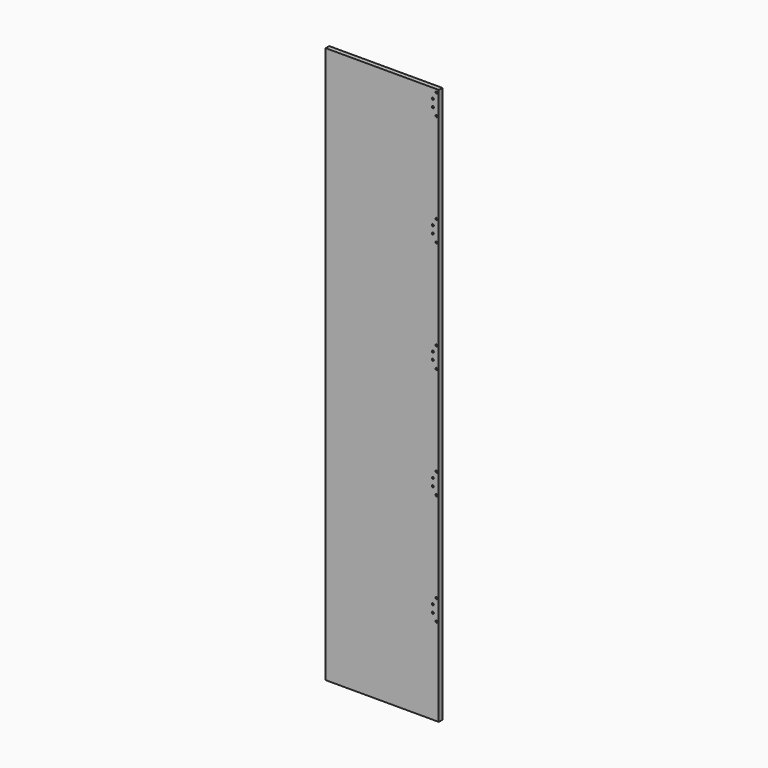
from build123d import *

# Parameters (mm, degrees)
F0_W     = 482.6
F0_H     = 2374.9
F1_DEPTH = 19.05
F2_R     = 4.318
F3_DEPTH = 25.4


with BuildPart() as f1:
    # F0 (on Front) → F1 (new body)
    with BuildSketch(Plane.XZ):
        Rectangle(F0_W, F0_H)
    extrude(amount=F1_DEPTH)

    # F2 (on face) → F3 (cut)
    with BuildSketch(Plane(origin=(0, 0, 0), x_dir=(-1, 0, 0), z_dir=(0, 1, 0))):
        with Locations((-215.9, 1145.9718)):
            Circle(F2_R)
        with Locations((-231.775, 1174.5468)):
            Circle(F2_R)
        with Locations((-215.9, 1114.6282)):
            Circle(F2_R)
        with Locations((-231.775, 1086.0532)):
            Circle(F2_R)
        with Locations((-231.775, 699.5668)):
            Circle(F2_R)
        with Locations((-215.9, 670.9918)):
            Circle(F2_R)
        with Locations((-215.9, 639.6482)):
            Circle(F2_R)
        with Locations((-231.775, 611.0732)):
            Circle(F2_R)
        with Locations((-231.775, 136.0932)):
            Circle(F2_R)
        with Locations((-215.9, 164.6682)):
            Circle(F2_R)
        with Locations((-215.9, 196.0118)):
            Circle(F2_R)
        with Locations((-231.775, 224.5868)):
            Circle(F2_R)
        with Locations((-231.775, -338.8868)):
            Circle(F2_R)
        with Locations((-215.9, -310.3118)):
            Circle(F2_R)
        with Locations((-215.9, -278.9682)):
            Circle(F2_R)
        with Locations((-231.775, -250.3932)):
            Circle(F2_R)
        with Locations((-231.775, -813.8668)):
            Circle(F2_R)
        with Locations((-215.9, -785.2918)):
            Circle(F2_R)
        with Locations((-215.9, -753.9482)):
            Circle(F2_R)
        with Locations((-231.775, -725.3732)):
            Circle(F2_R)
    extrude(amount=-F3_DEPTH, mode=Mode.SUBTRACT)


solid = f1.part
